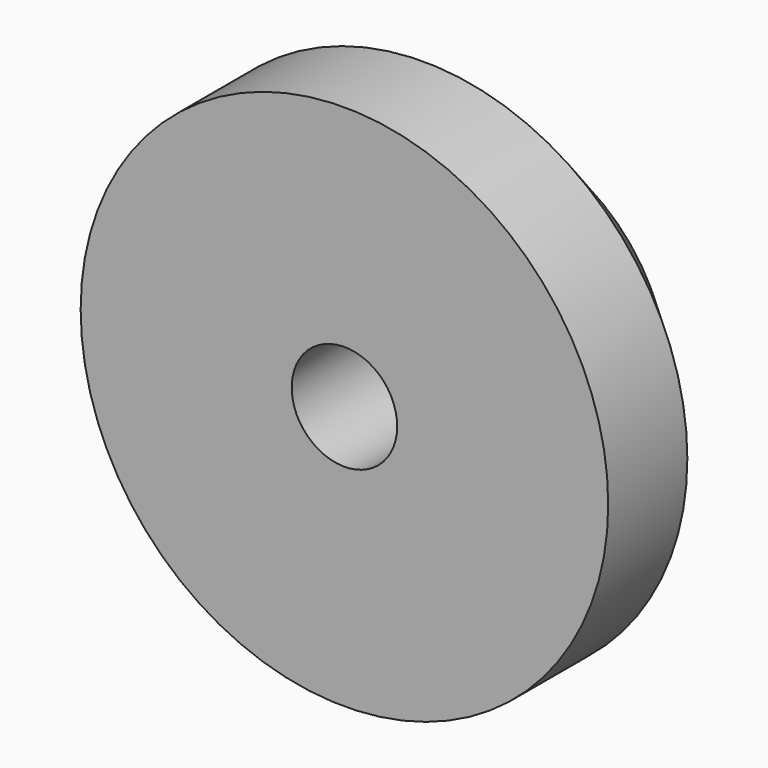
from build123d import *

# Parameters (mm, degrees)
F0_R     = 40
F0_R_2   = 25
F1_DEPTH = 30
F0_R_3   = 8
F2_DEPTH = 30
F3_SIZE  = 15


with BuildPart() as f1:
    # F0 (on Front) → F1 (new body)
    with BuildSketch(Plane.XZ):
        Circle(F0_R)
        Circle(F0_R_2, mode=Mode.SUBTRACT)
    extrude(amount=F1_DEPTH)

    # F0 (on Front) → F2 (join)
    with BuildSketch(Plane.XZ):
        Circle(F0_R)
        Circle(F0_R_2, mode=Mode.SUBTRACT)
        Circle(F0_R_2)
        Circle(F0_R_3, mode=Mode.SUBTRACT)
    extrude(amount=F2_DEPTH)

    # F3
    f3_edges = [f1.edges().sort_by_distance(p)[0] for p in [
        (-40, 0, 0),
    ]]
    chamfer(f3_edges, length=F3_SIZE)


solid = f1.part
